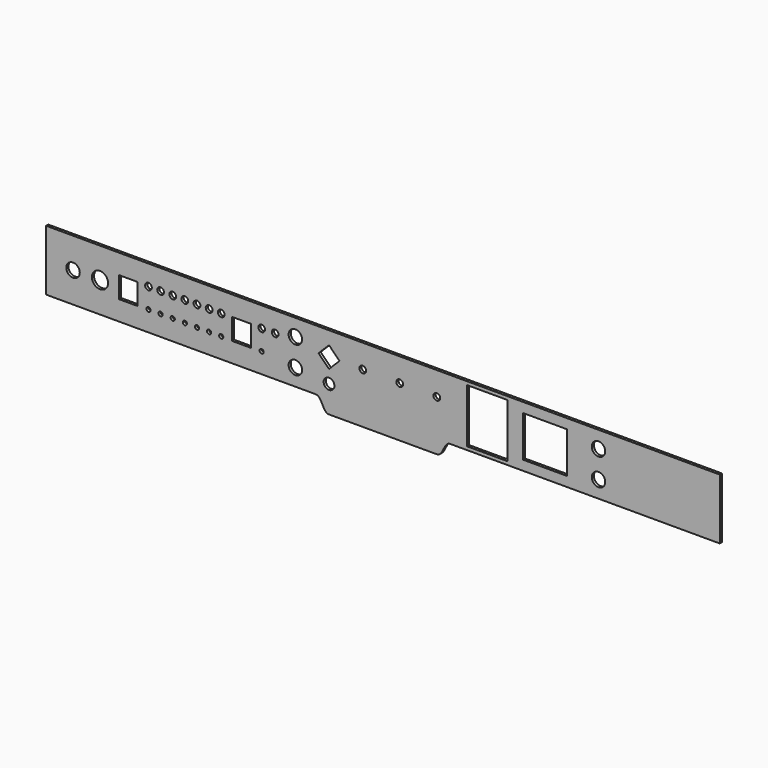
from build123d import *

# Parameters (mm, degrees)
F0_R     = 3.1
F0_R_2   = 8
F0_R_3   = 10
F0_R_4   = 12
F0_R_5   = 5
F0_W     = 60
F0_H     = 80
F0_W_2   = 64.935833
F0_H_2   = 61.036522
F1_DEPTH = 4


with BuildPart() as f1:
    # F0 (on Front) → F1 (new body)
    with BuildSketch(Plane.XZ):
        Polygon((500, 90), (-500, 90), (-500, 0), (-100, 0), (100, 0), (500, 0), align=None)
        with Locations((-348, 30)):
            Circle(F0_R, mode=Mode.SUBTRACT)
        with Locations((-330, 30)):
            Circle(F0_R, mode=Mode.SUBTRACT)
        with Locations((-312, 30)):
            Circle(F0_R, mode=Mode.SUBTRACT)
        with Locations((-294, 30)):
            Circle(F0_R, mode=Mode.SUBTRACT)
        with Locations((-276, 30)):
            Circle(F0_R, mode=Mode.SUBTRACT)
        with Locations((-258, 30)):
            Circle(F0_R, mode=Mode.SUBTRACT)
        with Locations((-80, 20)):
            Circle(F0_R_2, mode=Mode.SUBTRACT)
        with Locations((-130, 25)):
            Circle(F0_R_3, mode=Mode.SUBTRACT)
        with Locations((-240, 30)):
            Circle(F0_R, mode=Mode.SUBTRACT)
        with Locations((-180, 30)):
            Circle(F0_R, mode=Mode.SUBTRACT)
        with Locations((320, 25)):
            Circle(F0_R_3, mode=Mode.SUBTRACT)
        with Locations((-460, 45)):
            Circle(F0_R_3, mode=Mode.SUBTRACT)
        with Locations((-420, 45)):
            Circle(F0_R_4, mode=Mode.SUBTRACT)
        Polygon((-392, 29.25), (-392, 60.75), (-378, 60.75), (-364, 60.75), (-364, 29.25), (-378, 29.25), align=None, mode=Mode.SUBTRACT)
        with Locations((-348, 60)):
            Circle(F0_R_5, mode=Mode.SUBTRACT)
        with Locations((-330, 60)):
            Circle(F0_R_5, mode=Mode.SUBTRACT)
        with Locations((-312, 60)):
            Circle(F0_R_5, mode=Mode.SUBTRACT)
        with Locations((-294, 60)):
            Circle(F0_R_5, mode=Mode.SUBTRACT)
        with Locations((-276, 60)):
            Circle(F0_R_5, mode=Mode.SUBTRACT)
        with Locations((-258, 60)):
            Circle(F0_R_5, mode=Mode.SUBTRACT)
        Polygon((-224, 29.25), (-224, 60.75), (-210, 60.75), (-196, 60.75), (-196, 29.25), (-210, 29.25), align=None, mode=Mode.SUBTRACT)
        with Locations((-240, 60)):
            Circle(F0_R_5, mode=Mode.SUBTRACT)
        with Locations((-180, 60)):
            Circle(F0_R_5, mode=Mode.SUBTRACT)
        with Locations((-160, 60)):
            Circle(F0_R_5, mode=Mode.SUBTRACT)
        Polygon((-95.556349, 55), (-80, 70.556349), (-64.443651, 55), (-80, 39.443651), align=None, mode=Mode.SUBTRACT)
        with Locations((-30, 55)):
            Circle(F0_R_5, mode=Mode.SUBTRACT)
        with Locations((-130, 65)):
            Circle(F0_R_3, mode=Mode.SUBTRACT)
        with Locations((154.765666, 45)):
            Rectangle(F0_W, F0_H, mode=Mode.SUBTRACT)
        with Locations((240.529969, 45)):
            Rectangle(F0_W_2, F0_H_2, mode=Mode.SUBTRACT)
        with Locations((25, 55)):
            Circle(F0_R_5, mode=Mode.SUBTRACT)
        with Locations((80, 55)):
            Circle(F0_R_5, mode=Mode.SUBTRACT)
        with Locations((320, 65)):
            Circle(F0_R_3, mode=Mode.SUBTRACT)
        with BuildLine():
            Line((100, 0), (-100, 0))
            add(Edge.make_bspline(
                [(-100, 0), (-90, 0), (-90, -20), (-80, -20)],
                knots=[0, 0, 0, 0, 28.284271, 28.284271, 28.284271, 28.284271], degree=3))
            Line((-80, -20), (80, -20))
            add(Edge.make_bspline(
                [(100, 0), (90, 0), (90, -20), (80, -20)],
                knots=[0, 0, 0, 0, 28.284271, 28.284271, 28.284271, 28.284271], degree=3))
        make_face()
    extrude(amount=F1_DEPTH)


solid = f1.part
